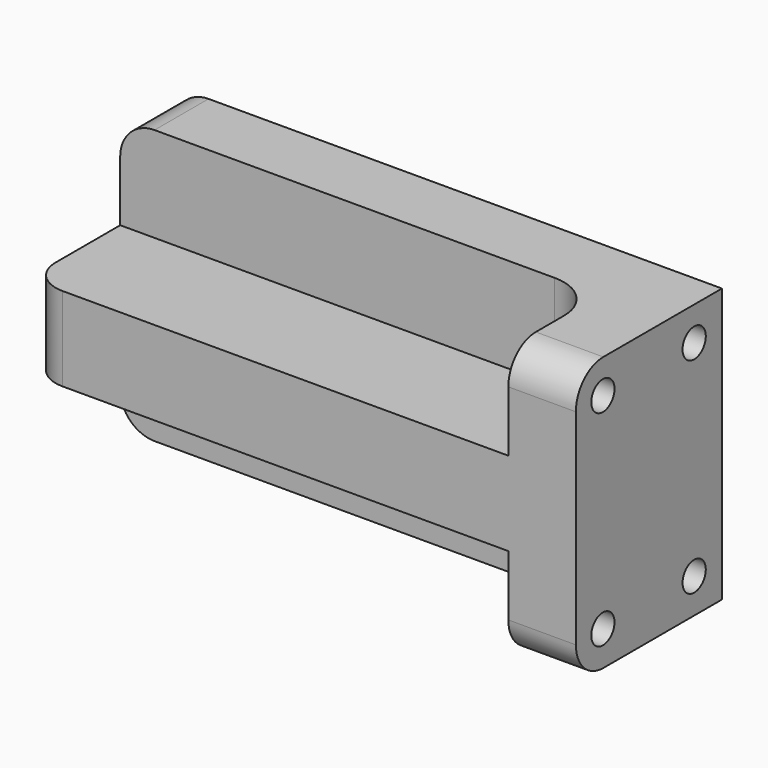
from build123d import *

# Parameters (mm, degrees)
F0_W     = 76.2
F0_H     = 25.4
F1_DEPTH = 38.1
F2_W     = 66.802
F2_H     = 13.208
F3_DEPTH = 16.002
F4_R     = 6.35
F5_R     = 4.7752
F6_R     = 4.7752
F8_D     = 4.0386
F8_DEPTH = 12.7
F8_TIP   = 1.213317848


with BuildPart() as f1:
    # F0 (on Top) → F1 (new body)
    with BuildSketch(Plane.XY):
        Rectangle(F0_W, F0_H)
    extrude(amount=F1_DEPTH)

    # F2 (on face) → F3 (cut)
    with BuildSketch(Plane.XZ.offset(12.7)):
        with Locations((-4.699, 31.496)):
            Rectangle(F2_W, F2_H)
        with Locations((-4.699, 6.604)):
            Rectangle(F2_W, F2_H)
    extrude(amount=-F3_DEPTH, mode=Mode.SUBTRACT)

    # F4
    f4_edges = [f1.edges().sort_by_distance(p)[0] for p in [
        (28.702, 3.302, 6.604),
        (28.702, 3.302, 31.496),
    ]]
    fillet(f4_edges, radius=F4_R)

    # F5
    f5_edges = [f1.edges().sort_by_distance(p)[0] for p in [
        (33.401, -12.7, 38.1),
        (33.401, -12.7, 0),
    ]]
    fillet(f5_edges, radius=F5_R)

    # F6
    f6_edges = [f1.edges().sort_by_distance(p)[0] for p in [
        (-38.1, -12.7, 19.05),
        (-38.1, 8.001, 38.1),
        (-38.1, 8.001, 0),
    ]]
    fillet(f6_edges, radius=F6_R)

    # F8
    with Locations(Plane.YZ.offset(38.1)):
        with Locations((-8.001, 4.826), (-8.001, 33.401), (7.874, 33.401), (7.874, 4.826)):
            Hole(F8_D / 2, depth=F8_DEPTH)
            with Locations((0, 0, -(F8_DEPTH + F8_TIP / 2))):  # 118° drill point
                Cone(0, F8_D / 2, F8_TIP, mode=Mode.SUBTRACT)


solid = f1.part
